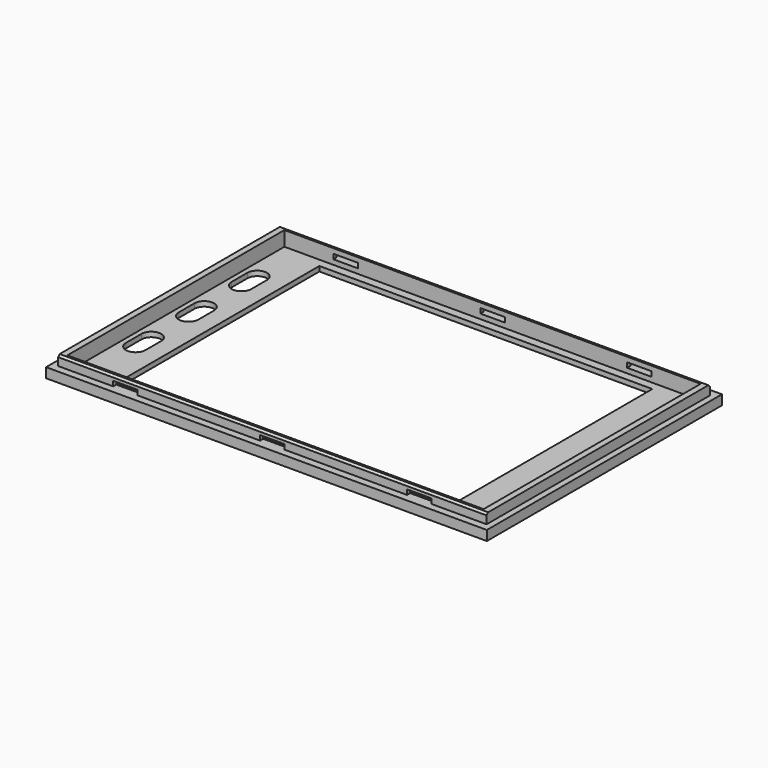
from build123d import *

# Parameters (mm, degrees)
SKETCH_W        = 90
SKETCH_H        = 60
SKETCH_W_2      = 68
SKETCH_H_2      = 52
PAD_DEPTH       = 1
SKETCH001_W     = 90
SKETCH001_H     = 60
SKETCH001_W_2   = 85
SKETCH001_H_2   = 55.4
PAD001_DEPTH    = 1
SKETCH002_W     = 87.5
SKETCH002_H     = 57
SKETCH002_W_2   = 85
SKETCH002_H_2   = 55.4
PAD002_DEPTH    = 2
SKETCH003_W     = 5
SKETCH003_H     = 1
POCKET_DEPTH    = 58.501
POCKET001_DEPTH = 4.001
CHAMFER_SIZE    = 0.4


with BuildPart() as part:
    # Sketch → Pad (new body)
    with BuildSketch(Plane.XY):
        Rectangle(SKETCH_W, SKETCH_H)
        Rectangle(SKETCH_W_2, SKETCH_H_2, mode=Mode.SUBTRACT)
    extrude(amount=PAD_DEPTH)

    # Sketch001 → Pad001 (new body)
    with BuildSketch(Plane.XY.offset(1)):
        Rectangle(SKETCH001_W, SKETCH001_H)
        Rectangle(SKETCH001_W_2, SKETCH001_H_2, mode=Mode.SUBTRACT)
    extrude(amount=PAD001_DEPTH)

    # Sketch002 → Pad002 (new body)
    with BuildSketch(Plane.XY.offset(2)):
        Rectangle(SKETCH002_W, SKETCH002_H)
        Rectangle(SKETCH002_W_2, SKETCH002_H_2, mode=Mode.SUBTRACT)
    extrude(amount=PAD002_DEPTH)

    # Sketch003 → Pocket (cut, through all)
    with BuildSketch(Plane.XZ.offset(28.5)):
        with Locations((-30, 2.5)):
            Rectangle(SKETCH003_W, SKETCH003_H)
        with Locations((0, 2.5)):
            Rectangle(SKETCH003_W, SKETCH003_H)
        with Locations((30, 2.5)):
            Rectangle(SKETCH003_W, SKETCH003_H)
    extrude(amount=-POCKET_DEPTH, mode=Mode.SUBTRACT)

    # Sketch004 → Pocket001 (cut, through all)
    with BuildSketch(Plane(origin=(0, 0, 0), x_dir=(1, 0, 0), z_dir=(0, 0, -1))):
        with BuildLine():
            ThreePointArc((-37.5, 14), (-39.5, 16), (-41.5, 14))
            Line((-41.5, 14), (-41.5, 10))
            ThreePointArc((-41.5, 10), (-39.5, 8), (-37.5, 10))
            Line((-37.5, 14), (-37.5, 10))
        make_face()
        with BuildLine():
            ThreePointArc((-37.5, 0.5), (-39.5, 2.5), (-41.5, 0.5))
            Line((-41.5, 0.5), (-41.5, -3.5))
            ThreePointArc((-41.5, -3.5), (-39.5, -5.5), (-37.5, -3.5))
            Line((-37.5, 0.5), (-37.5, -3.5))
        make_face()
        with BuildLine():
            ThreePointArc((-37.5, -13), (-39.5, -11), (-41.5, -13))
            Line((-41.5, -13), (-41.5, -17))
            ThreePointArc((-41.5, -17), (-39.5, -19), (-37.5, -17))
            Line((-37.5, -13), (-37.5, -17))
        make_face()
    extrude(amount=-POCKET001_DEPTH, mode=Mode.SUBTRACT)

    # Chamfer
    chamfer_edges = [part.edges().sort_by_distance(p)[0] for p in [
        (0, 28.5, 4),
        (0, -28.5, 4),
    ]]
    chamfer(chamfer_edges, length=CHAMFER_SIZE)


solid = part.part
